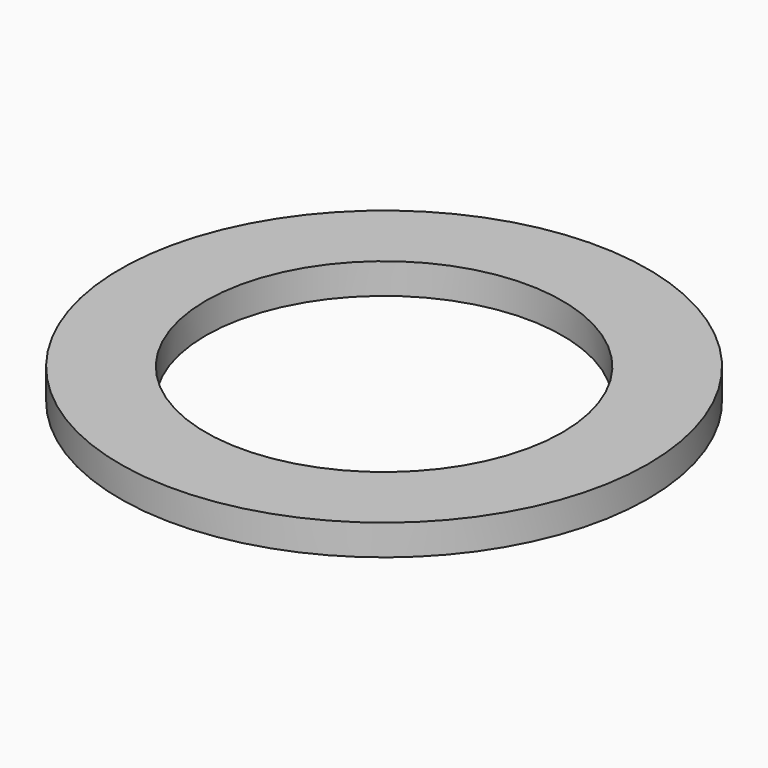
from build123d import *

# Parameters (mm, degrees)
SKETCH_R   = 25.908
SKETCH_R_2 = 17.5
PAD_DEPTH  = 3


with BuildPart() as part:
    # Sketch → Pad (new body)
    with BuildSketch(Plane.XY):
        Circle(SKETCH_R)
        Circle(SKETCH_R_2, mode=Mode.SUBTRACT)
    extrude(amount=PAD_DEPTH)


solid = part.part
